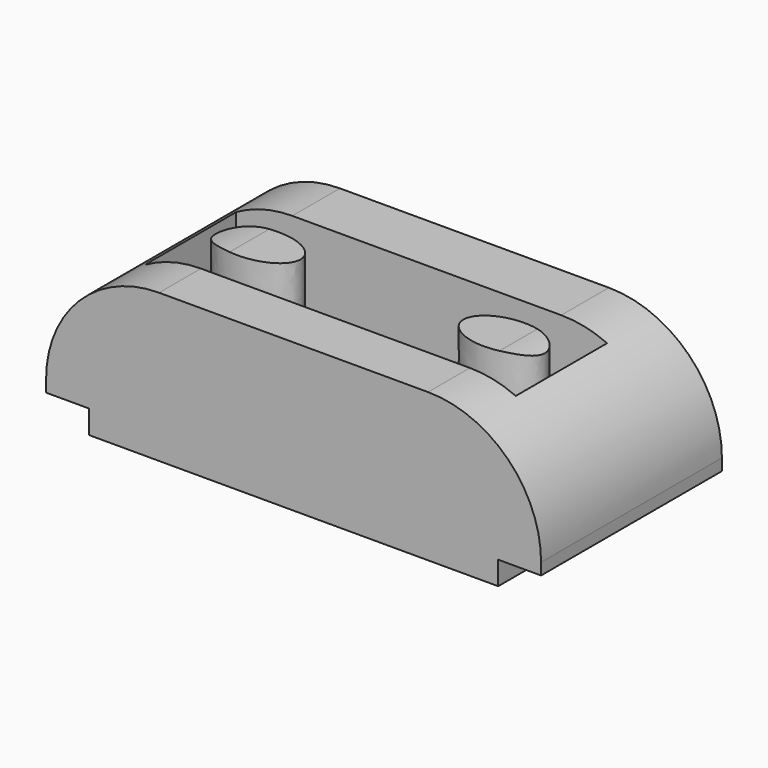
from build123d import *

# Parameters (mm, degrees)
F1_DEPTH = 58
F2_W     = 11
F2_H     = 6
F3_DEPTH = 58
F4_W     = 95.157943
F4_H     = 29.296835
F5_DEPTH = 38.001


with BuildPart() as f1:
    # F0 (on Front) → F1 (new body)
    with BuildSketch(Plane.XZ):
        with BuildLine():
            Line((0, 9), (0, 0))
            Line((0, 0), (127, 0))
            Line((127, 0), (127, 9))
            ThreePointArc((127, 9), (118.506097, 29.506097), (98, 38))
            Line((98, 38), (29, 38))
            ThreePointArc((29, 38), (8.493903, 29.506097), (0, 9))
        make_face()
    extrude(amount=F1_DEPTH)

    # F2 (on Front) → F3 (cut)
    with BuildSketch(Plane.XZ):
        with Locations((121.5, 3)):
            Rectangle(F2_W, F2_H)
        with Locations((5.5, 3)):
            Rectangle(F2_W, F2_H)
    extrude(amount=F3_DEPTH, mode=Mode.SUBTRACT)

    # F4 (on Top) → F5 (cut, through all)
    with BuildSketch(Plane.XY):
        with Locations((62.191074, -29.928551)):
            Rectangle(F4_W, F4_H)
        with BuildLine():
            add(Edge.make_bspline(
                [(20.289784, -29), (20.289784, -40.25833), (36.641508, -34.629165), (52.993232, -29), (36.641508, -23.370835), (20.289784, -17.74167), (20.289784, -29)],
                knots=[0, 0, 0, 2.094395, 2.094395, 4.18879, 4.18879, 6.283185, 6.283185, 6.283185], degree=2, weights=[1, 0.5, 1, 0.5, 1, 0.5, 1]))
        make_face(mode=Mode.SUBTRACT)
        with BuildLine():
            add(Edge.make_bspline(
                [(104.773693, -29), (104.773693, -17.74167), (89.103278, -23.370835), (73.432863, -29), (89.103278, -34.629165), (104.773693, -40.25833), (104.773693, -29)],
                knots=[0, 0, 0, 2.094395, 2.094395, 4.18879, 4.18879, 6.283185, 6.283185, 6.283185], degree=2, weights=[1, 0.5, 1, 0.5, 1, 0.5, 1]))
        make_face(mode=Mode.SUBTRACT)
    extrude(amount=F5_DEPTH, mode=Mode.SUBTRACT)


solid = f1.part
